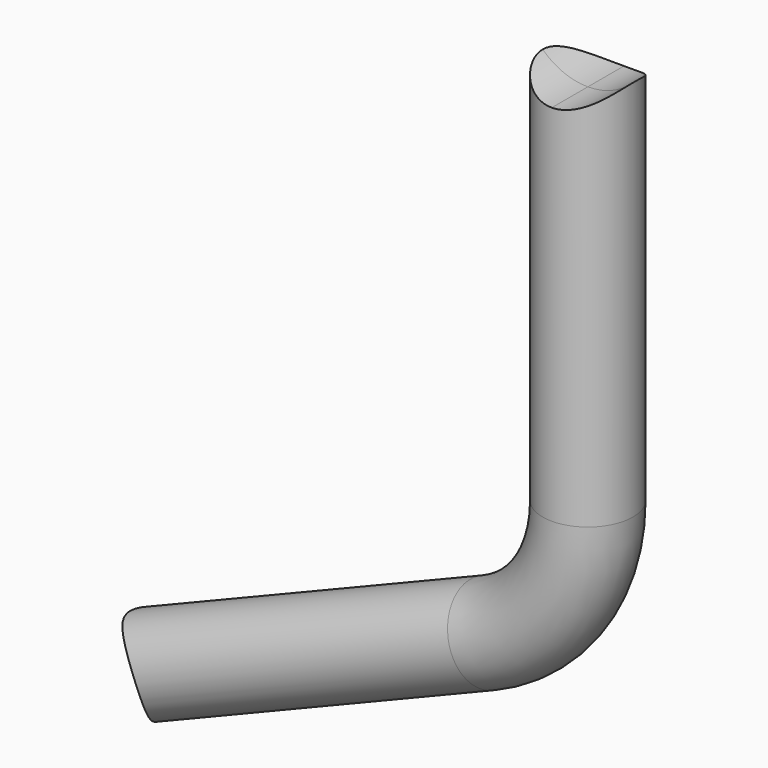
from build123d import *

# Parameters (mm, degrees)
F1_R          = 21
F3_DEPTH      = 21.0010001
F3_DEPTH_BACK = 21.0010001


with BuildPart() as f2:
    # F2: sweep along a path in F0
    with BuildLine(Plane.XZ) as f2_path:
        Line((0, 0), (0, -199.5701125716))
        ThreePointArc((0, -199.5701125716), (-12.7613665352, -241.419276296), (-46.7027334515, -269.0270395543))
        Line((-46.7027334515, -269.0270395543), (-216, -338))
    # F1 (on Top) → F2 (sweep)
    with BuildSketch(Plane.XY):
        Circle(F1_R)
    sweep(path=f2_path.line)

    # F0 (on Front) → F3 (cut, two sides)
    with BuildSketch(Plane.XZ) as f3_sk:
        with BuildLine():
            ThreePointArc((0, -30.15), (21.3192694528, -21.3192694528), (30.15, 0))
            ThreePointArc((30.15, 0), (-21.3192694528, 21.3192694528), (0, -30.15))
        make_face()
        with BuildLine():
            ThreePointArc((-191.87, -338), (-192.3200446948, -333.3613992688), (-193.6533913588, -328.8958261091))
            ThreePointArc((-193.6533913588, -328.8958261091), (-239.6799553052, -342.6386007312), (-191.87, -338))
        make_face()
    extrude(amount=-F3_DEPTH, mode=Mode.SUBTRACT)
    extrude(f3_sk.sketch, amount=F3_DEPTH_BACK, mode=Mode.SUBTRACT)


solid = f2.part
